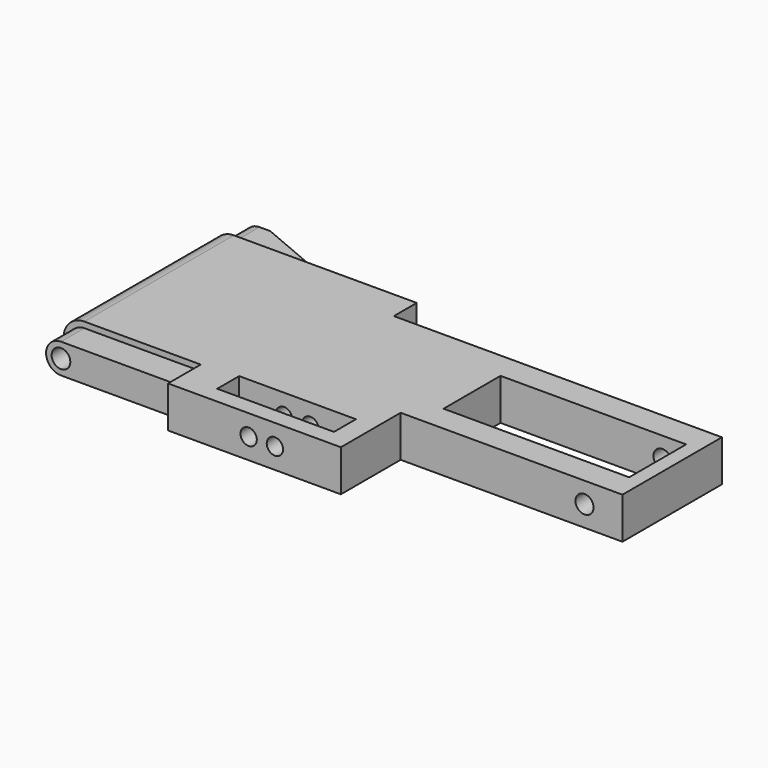
from build123d import *

# Parameters (mm, degrees)
SKETCH_W        = 91.1
SKETCH_H        = 44.5
PAD_DEPTH       = 3.55
POCKET_DEPTH    = 7.101
SKETCH002_W     = 38
SKETCH002_H     = 12.8
POCKET001_DEPTH = 7.101
SKETCH003_W     = 23.5
SKETCH003_H     = 2
POCKET002_DEPTH = 7.101
SKETCH004_W     = 31.8
SKETCH004_H     = 12.2
POCKET003_DEPTH = 7.101
SKETCH005_W     = 20
SKETCH005_H     = 4.7
POCKET004_DEPTH = 7.101
POCKET005_DEPTH = 42.501
POCKET006_DEPTH = 5
POCKET007_DEPTH = 5.5
SKETCH009_R     = 1.6
POCKET008_DEPTH = 42.501
SKETCH010_R     = 1.55
POCKET009_DEPTH = 44.501
SKETCH011_R     = 1.4
POCKET010_DEPTH = 16


with BuildPart() as part:
    # Sketch → Pad (new body, symmetric)
    with BuildSketch(Plane.XY):
        with Locations((45.55, 0)):
            Rectangle(SKETCH_W, SKETCH_H)
    extrude(amount=PAD_DEPTH, both=True)

    # Sketch001 → Pocket (cut, through all)
    with BuildSketch(Plane.XY.offset(3.55)):
        Polygon((5.4, 22.25), (91.1, 22.25), (91.1, 11.85), (34.9, 11.85), (34.9, 16.75), (18.4, 16.75), align=None)
    extrude(amount=-POCKET_DEPTH, mode=Mode.SUBTRACT)

    # Sketch002 → Pocket001 (cut, through all)
    with BuildSketch(Plane.XY.offset(3.55)):
        with Locations((72.1, -15.85)):
            Rectangle(SKETCH002_W, SKETCH002_H)
    extrude(amount=-POCKET001_DEPTH, mode=Mode.SUBTRACT)

    # Sketch003 → Pocket002 (cut, through all)
    with BuildSketch(Plane.XY.offset(3.55)):
        with Locations((11.75, -21.25)):
            Rectangle(SKETCH003_W, SKETCH003_H)
    extrude(amount=-POCKET002_DEPTH, mode=Mode.SUBTRACT)

    # Sketch004 → Pocket003 (cut, through all)
    with BuildSketch(Plane.XY.offset(3.55)):
        with Locations((72.75, 1.15)):
            Rectangle(SKETCH004_W, SKETCH004_H)
    extrude(amount=-POCKET003_DEPTH, mode=Mode.SUBTRACT)

    # Sketch005 → Pocket004 (cut, through all)
    with BuildSketch(Plane.XY.offset(3.55)):
        with Locations((39.6, -17)):
            Rectangle(SKETCH005_W, SKETCH005_H)
    extrude(amount=-POCKET004_DEPTH, mode=Mode.SUBTRACT)

    # Sketch006 → Pocket005 (cut, through all)
    with BuildSketch(Plane.XZ.offset(20.25)):
        with BuildLine():
            Line((3.55, 3.55), (-1.45, 3.55))
            Line((-1.45, 3.55), (-1.45, -3.55))
            Line((-1.45, -3.55), (3.55, -3.55))
            ThreePointArc((3.55, 3.55), (0, 0), (3.55, -3.55))
        make_face()
    extrude(amount=-POCKET005_DEPTH, mode=Mode.SUBTRACT)

    # Sketch007 → Pocket006 (cut)
    with BuildSketch(Plane.XZ.offset(20.25)):
        with BuildLine():
            Line((0, 3.55), (23.5, 3.55))
            Line((23.5, 3.55), (23.5, 2.55))
            Line((23.5, 2.55), (3.55, 2.55))
            ThreePointArc((3.55, 2.55), (1, 0), (3.55, -2.55))
            Line((3.55, -2.55), (23.5, -2.55))
            Line((23.5, -2.55), (23.5, -3.55))
            Line((23.5, -3.55), (0, -3.55))
            Line((0, -3.55), (0, 3.55))
        make_face()
    extrude(amount=-POCKET006_DEPTH, mode=Mode.SUBTRACT)

    # Sketch008 → Pocket007 (cut)
    with BuildSketch(Plane(origin=(0, 22.25, 0), x_dir=(-1, 0, 0), z_dir=(0, 1, 0))):
        with BuildLine():
            Line((-18.4, 3.55), (0, 3.55))
            Line((0, 3.55), (0, -3.55))
            Line((0, -3.55), (-18.4, -3.55))
            Line((-18.4, -2.55), (-18.4, -3.55))
            Line((-3.55, -2.55), (-18.4, -2.55))
            ThreePointArc((-3.55, -2.55), (-1, 0), (-3.55, 2.55))
            Line((-18.4, 2.55), (-3.55, 2.55))
            Line((-18.4, 3.55), (-18.4, 2.55))
        make_face()
    extrude(amount=-POCKET007_DEPTH, mode=Mode.SUBTRACT)

    # Sketch009 → Pocket008 (cut, through all)
    with BuildSketch(Plane.XZ.offset(20.25)):
        with Locations((3.55, 0)):
            Circle(SKETCH009_R)
    extrude(amount=-POCKET008_DEPTH, mode=Mode.SUBTRACT)

    # Sketch010 → Pocket009 (cut, through all)
    with BuildSketch(Plane.XZ.offset(22.25)):
        with Locations((84.6, 0)):
            Circle(SKETCH010_R)
    extrude(amount=-POCKET009_DEPTH, mode=Mode.SUBTRACT)

    # Sketch011 → Pocket010 (cut)
    with BuildSketch(Plane.XZ.offset(22.25)):
        with Locations((41.8, 0)):
            Circle(SKETCH011_R)
        with Locations((37.3, 0)):
            Circle(SKETCH011_R)
    extrude(amount=-POCKET010_DEPTH, mode=Mode.SUBTRACT)


solid = part.part
